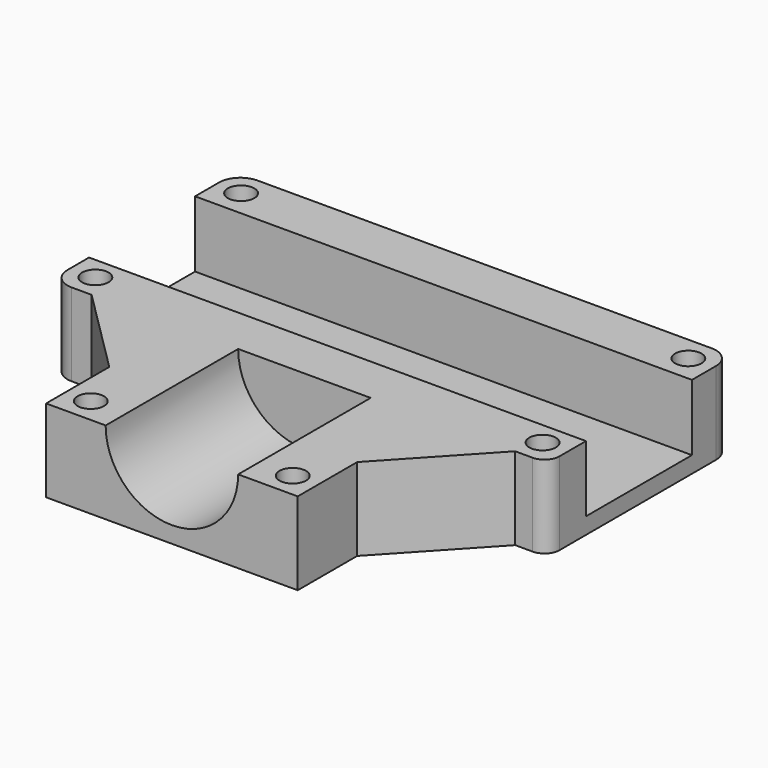
from build123d import *

# Parameters (mm, degrees)
F0_R          = 4
F1_DEPTH      = 24.95
F2_W          = 40
F2_H          = 20
F3_DEPTH      = 150
F3_DEPTH_BACK = 150
F4_R          = 20
F5_DEPTH      = 50


with BuildPart() as f1:
    # F0 (on Top) → F1 (new body)
    with BuildSketch(Plane.XY):
        with BuildLine():
            Line((58.181364, 29.598313), (-78.941487, 29.598313))
            ThreePointArc((-78.941487, 29.598313), (-83.494247, 27.712498), (-85.380062, 23.159739))
            Line((-85.380062, 23.159739), (-85.380062, -34.03374))
            ThreePointArc((-85.380062, -34.03374), (-83.514933, -38.536559), (-79.012115, -40.401687))
            Line((-79.012115, -40.401687), (-73.01646, -40.401687))
            Line((-73.01646, -40.401687), (-58.498297, -40.401687))
            Line((-58.498297, -40.401687), (-46.752002, -40.401687))
            Line((-46.752002, -40.401687), (-43.284619, -40.401687))
            Line((-43.284619, -40.401687), (26.715381, -40.401687))
            Line((26.715381, -40.401687), (29.210588, -40.401687))
            Line((29.210588, -40.401687), (54.838952, -40.401687))
            Line((54.838952, -40.401687), (60.120346, -40.401687))
            ThreePointArc((60.120346, -40.401687), (63.302038, -39.083787), (64.619938, -35.902095))
            Line((64.619938, -35.902095), (64.619938, 23.159739))
            ThreePointArc((64.619938, 23.159739), (62.734124, 27.712498), (58.181364, 29.598313))
        make_face()
        with Locations((-77.880062, -32.901687)):
            Circle(F0_R, mode=Mode.SUBTRACT)
        with Locations((57.119938, -32.901687)):
            Circle(F0_R, mode=Mode.SUBTRACT)
        with Locations((-77.880062, 22.098313)):
            Circle(F0_R, mode=Mode.SUBTRACT)
        with Locations((57.119938, 22.098313)):
            Circle(F0_R, mode=Mode.SUBTRACT)
        Polygon((-58.498297, -40.401687), (-73.01646, -40.401687), (-46.752002, -66.558582), (-46.752002, -40.401687), align=None)
        Polygon((29.210588, -67.972728), (54.838952, -40.401687), (29.210588, -40.401687), align=None)
        Polygon((-46.752002, -40.401687), (-46.752002, -66.558582), (-46.752002, -82.901687), (-46.752002, -90.401687), (-39.252002, -90.401687), (21.710588, -90.401687), (29.210588, -90.401687), (29.210588, -82.901687), (29.210588, -67.972728), (29.210588, -40.401687), (26.715381, -40.401687), (-43.284619, -40.401687), align=None)
        with Locations((-39.252002, -82.901687)):
            Circle(F0_R, mode=Mode.SUBTRACT)
        with Locations((21.710588, -82.901687)):
            Circle(F0_R, mode=Mode.SUBTRACT)
    extrude(amount=-F1_DEPTH)

    # F2 (on face) → F3 (cut, two sides)
    with BuildSketch(Plane.YZ.offset(64.619938)) as f3_sk:
        with Locations((-5.902329, -10)):
            Rectangle(F2_W, F2_H)
    extrude(amount=-F3_DEPTH, mode=Mode.SUBTRACT)
    extrude(f3_sk.sketch, amount=-F3_DEPTH_BACK, mode=Mode.SUBTRACT)

    # F4 (on face) → F5 (cut)
    with BuildSketch(Plane.XZ.offset(90.401687)):
        with Locations((-8.770707, 0)):
            Circle(F4_R)
    extrude(amount=-F5_DEPTH, mode=Mode.SUBTRACT)


solid = f1.part
